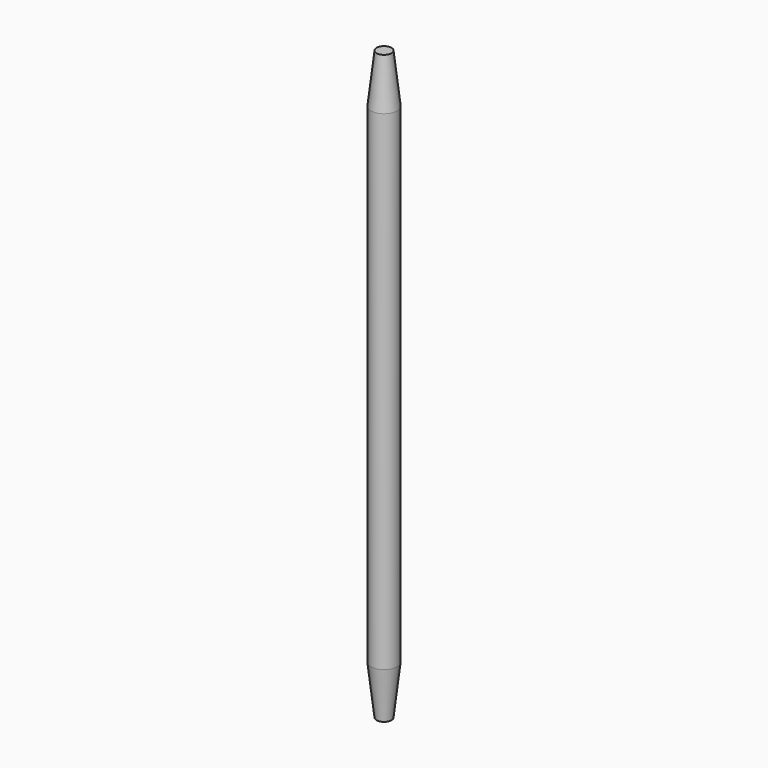
from build123d import *

# Parameters (mm, degrees)
F0_R     = 12.7
F1_DEPTH = 476.25
F2_R     = 12.7
F3_DEPTH = 47.625
F4_SIZE2 = 47.625
F4_SIZE  = 5.461
F5_R     = 12.7
F6_DEPTH = 47.625
F7_SIZE2 = 5.461
F7_SIZE  = 47.625


with BuildPart() as f1:
    # F0 (on Top) → F1 (new body)
    with BuildSketch(Plane.XY):
        Circle(F0_R)
    extrude(amount=F1_DEPTH)

    # F2 (on face) → F3 (join)
    with BuildSketch(Plane.XY.offset(476.25)):
        Circle(F2_R)
    extrude(amount=F3_DEPTH)

    # F4
    f4_edges = [f1.edges().sort_by_distance(p)[0] for p in [
        (-12.7, 0, 523.875),
    ]]
    f4_side = f1.faces().sort_by_distance((0, 0, 523.875))[0]
    chamfer(f4_edges, length=F4_SIZE, length2=F4_SIZE2, reference=f4_side)

    # F5 (on face) → F6 (join)
    with BuildSketch(Plane(origin=(0, 0, 0), x_dir=(1, 0, 0), z_dir=(0, 0, -1))):
        Circle(F5_R)
    extrude(amount=F6_DEPTH)

    # F7
    f7_edges = [f1.edges().sort_by_distance(p)[0] for p in [
        (-12.7, 0, -47.625),
    ]]
    f7_side = f1.faces().sort_by_distance((-12.7, 0, 214.3125))[0]
    chamfer(f7_edges, length=F7_SIZE, length2=F7_SIZE2, reference=f7_side)


solid = f1.part
